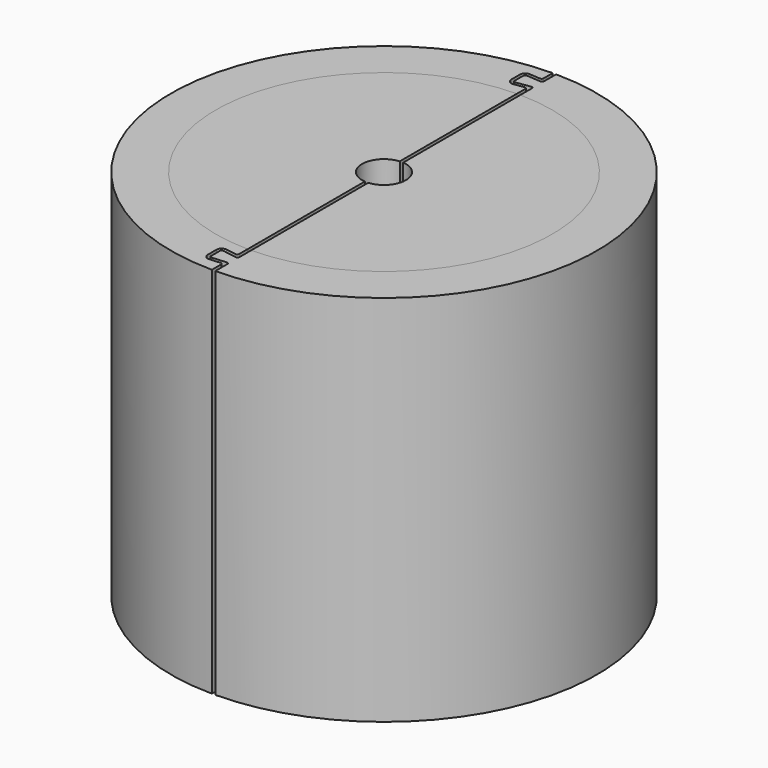
from build123d import *

# Parameters (mm, degrees)
F1_DEPTH       = 25.4
F2_DEPTH       = 25.4
F3_R           = 11.4077093499
F4_DEPTH       = 3.175
F7_DEPTH       = 3.175
F9_DEPTH       = 3.175
F8_R           = 1.4919670492
F10_DEPTH      = 10.414
F10_DEPTH_BACK = 34.544


with BuildPart() as f1:
    # F0 (on Top) → F1 (new body)
    with BuildSketch(Plane.XY):
        with BuildLine():
            Line((-0.1169041469, 13.713780639), (-0.1169041469, 14.4988111578))
            ThreePointArc((-0.1169041469, 14.4988111578), (-14.4992824501, 0), (-0.1169041469, -14.4988111578))
            Line((-0.1169041469, -14.4988111578), (-0.1169041469, -13.713780639))
            ThreePointArc((-0.1169041469, -13.713780639), (-0.1588861156, -13.6177219618), (-0.2579005322, -13.5832850558))
            Line((-0.2579005322, -13.5832850558), (-0.9845611309, -13.6395810228))
            ThreePointArc((-0.9845611309, -13.6395810228), (-1.2565093233, -13.5449982877), (-1.3718149617, -13.2811681855))
            Line((-1.3718149617, -13.2811681855), (-1.3718149617, -12.5426644034))
            ThreePointArc((-1.3718149617, -12.5426644034), (-1.2460316386, -12.2695097811), (-0.9567040601, -12.187507072))
            Line((-0.9567040601, -12.187507072), (-0.268043095, -12.2953638856))
            ThreePointArc((-0.268043095, -12.2953638856), (-0.1627009666, -12.2655072783), (-0.1169041469, -12.1660536091))
            Line((-0.1169041469, -12.1660536091), (-0.1169041469, -11.4506855051))
            ThreePointArc((-0.1169041469, -11.4506855051), (-11.4512822477, 0), (-0.1169041469, 11.4506855051))
            Line((-0.1169041469, 11.4506855051), (-0.1169041469, 12.1660536091))
            ThreePointArc((-0.1169041469, 12.1660536091), (-0.1627009666, 12.2655072783), (-0.268043095, 12.2953638856))
            Line((-0.268043095, 12.2953638856), (-0.9567040601, 12.187507072))
            ThreePointArc((-0.9567040601, 12.187507072), (-1.2460316386, 12.2695097811), (-1.3718149617, 12.5426644034))
            Line((-1.3718149617, 12.5426644034), (-1.3718149617, 13.2811681855))
            ThreePointArc((-1.3718149617, 13.2811681855), (-1.2565093233, 13.5449982877), (-0.9845611309, 13.6395810228))
            Line((-0.9845611309, 13.6395810228), (-0.2579005322, 13.5832850558))
            ThreePointArc((-0.2579005322, 13.5832850558), (-0.1588861156, 13.6177219618), (-0.1169041469, 13.713780639))
        make_face()
    extrude(amount=F1_DEPTH)


with BuildPart() as f2:
    # F0 (on Top) → F2 (new body)
    with BuildSketch(Plane.XY):
        with BuildLine():
            ThreePointArc((0.1169041469, 11.4506855051), (11.4512822477, 0), (0.1169041469, -11.4506855051))
            Line((0.1169041469, -11.4506855051), (0.1169041469, -12.4340591473))
            ThreePointArc((0.1169041469, -12.4340591473), (0.0711073271, -12.5335128165), (-0.0342348012, -12.5633694238))
            Line((-0.0342348012, -12.5633694238), (-0.9920758104, -12.4133541269))
            ThreePointArc((-0.9920758104, -12.4133541269), (-1.0974179387, -12.4432107342), (-1.1432147585, -12.5426644034))
            Line((-1.1432147585, -12.5426644034), (-1.1432147585, -13.2811681855))
            ThreePointArc((-1.1432147585, -13.2811681855), (-1.1012327897, -13.3772268628), (-1.0022183732, -13.4116637687))
            Line((-1.0022183732, -13.4116637687), (-0.0240922384, -13.3358862232))
            ThreePointArc((-0.0240922384, -13.3358862232), (0.0749221781, -13.3703231292), (0.1169041469, -13.4663818064))
            Line((0.1169041469, -13.4663818064), (0.1169041469, -14.4988111578))
            ThreePointArc((0.1169041469, -14.4988111578), (14.4992824501, 0), (0.1169041469, 14.4988111578))
            Line((0.1169041469, 14.4988111578), (0.1169041469, 13.4663818064))
            ThreePointArc((0.1169041469, 13.4663818064), (0.0749221781, 13.3703231292), (-0.0240922384, 13.3358862232))
            Line((-0.0240922384, 13.3358862232), (-1.0022183732, 13.4116637687))
            ThreePointArc((-1.0022183732, 13.4116637687), (-1.1012327897, 13.3772268628), (-1.1432147585, 13.2811681855))
            Line((-1.1432147585, 13.2811681855), (-1.1432147585, 12.5426644034))
            ThreePointArc((-1.1432147585, 12.5426644034), (-1.0974179387, 12.4432107342), (-0.9920758104, 12.4133541269))
            Line((-0.9920758104, 12.4133541269), (-0.0342348012, 12.5633694238))
            ThreePointArc((-0.0342348012, 12.5633694238), (0.0711073271, 12.5335128165), (0.1169041469, 12.4340591473))
            Line((0.1169041469, 12.4340591473), (0.1169041469, 11.4506855051))
        make_face()
    extrude(amount=F2_DEPTH)


with BuildPart() as f4:
    # F3 (on Top) → F4 (new body)
    with BuildSketch(Plane.XY):
        Circle(F3_R)
    extrude(amount=F4_DEPTH)

    # F3 (on Top) → F9 (join)
    with BuildSketch(Plane.XY):
        Circle(F3_R)
    extrude(amount=F9_DEPTH)


with BuildPart() as f7:
    # F6 (on offset) → F7 (new body)
    with BuildSketch(Plane.XY.offset(25.4)):
        with BuildLine():
            ThreePointArc((-0.1169041469, 11.4506855051), (-11.4512822477, 0), (-0.1169041469, -11.4506855051))
            Line((-0.1169041469, -11.4506855051), (-0.1169041469, 11.4506855051))
        make_face()
    extrude(amount=-F7_DEPTH)


with BuildPart() as f7b:
    # F6 (on offset) → F7, piece 2 (new body)
    with BuildSketch(Plane.XY.offset(25.4)):
        with BuildLine():
            Line((0.1169041469, 11.4506855051), (0.1169041469, -11.4506855051))
            ThreePointArc((0.1169041469, -11.4506855051), (11.4512822477, 0), (0.1169041469, 11.4506855051))
        make_face()
    extrude(amount=-F7_DEPTH)


with BuildPart() as f10_tool:
    # F8 (on Top) → F10 (new body, two sides)
    with BuildSketch(Plane.XY) as f10_sk:
        Circle(F8_R)
    extrude(amount=-F10_DEPTH)
    extrude(f10_sk.sketch, amount=F10_DEPTH_BACK)


with BuildPart() as f4_1:
    add(f4.part)

    # F10: cut by f10_tool
    add(f10_tool.part, mode=Mode.SUBTRACT)


with BuildPart() as f7_1:
    add(f7.part)

    # F10: cut by f10_tool
    add(f10_tool.part, mode=Mode.SUBTRACT)


with BuildPart() as f7b_1:
    add(f7b.part)

    # F10: cut by f10_tool
    add(f10_tool.part, mode=Mode.SUBTRACT)


solid = Compound([f1.part, f2.part, f4_1.part, f7_1.part, f7b_1.part])
